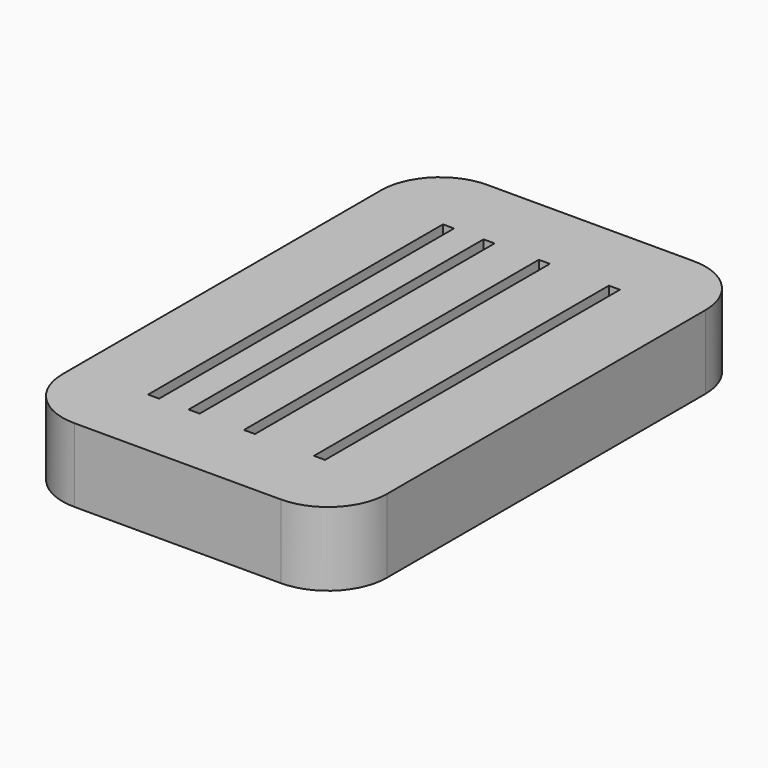
from build123d import *

# Parameters (mm, degrees)
BOX002_W     = 0.75
BOX002_H     = 25
BOX002_DEPTH = 10
BOX003_W     = 0.75
BOX003_H     = 25
BOX003_DEPTH = 10
BOX004_W     = 0.75
BOX004_H     = 25
BOX004_DEPTH = 10
BOX001_W     = 0.75
BOX001_H     = 25
BOX001_DEPTH = 10
BOX_W        = 22
BOX_H        = 35
BOX_DEPTH    = 5
FILLET_R     = 4


with BuildPart() as cube002:
    # Box002 → Box002 (new body)
    with BuildSketch(Plane(origin=(11.5, 5, 0), x_dir=(1, 0, 0), z_dir=(0, 0, 1))):
        with Locations((0.375, 12.5)):
            Rectangle(BOX002_W, BOX002_H)
    extrude(amount=BOX002_DEPTH)


with BuildPart() as cube003:
    # Box003 → Box003 (new body)
    with BuildSketch(Plane(origin=(7.75, 5, 0), x_dir=(1, 0, 0), z_dir=(0, 0, 1))):
        with Locations((0.375, 12.5)):
            Rectangle(BOX003_W, BOX003_H)
    extrude(amount=BOX003_DEPTH)


with BuildPart() as cube004:
    # Box004 → Box004 (new body)
    with BuildSketch(Plane(origin=(16.25, 5, 0), x_dir=(1, 0, 0), z_dir=(0, 0, 1))):
        with Locations((0.375, 12.5)):
            Rectangle(BOX004_W, BOX004_H)
    extrude(amount=BOX004_DEPTH)


with BuildPart() as fusion:
    # Box001 → Box001 (new body)
    with BuildSketch(Plane(origin=(5, 5, 0), x_dir=(1, 0, 0), z_dir=(0, 0, 1))):
        with Locations((0.375, 12.5)):
            Rectangle(BOX001_W, BOX001_H)
    extrude(amount=BOX001_DEPTH)

    # Fusion: union Cube002, Cube003, Cube004
    add(cube002.part)
    add(cube003.part)
    add(cube004.part)


with BuildPart() as cut:
    # Box → Box (new body)
    with BuildSketch(Plane.XY):
        with Locations((11, 17.5)):
            Rectangle(BOX_W, BOX_H)
    extrude(amount=BOX_DEPTH)

    # Fillet
    fillet_edges = [cut.edges().sort_by_distance(p)[0] for p in [
        (0, 0, 2.5),
        (0, 35, 2.5),
        (22, 0, 2.5),
        (22, 35, 2.5),
    ]]
    fillet(fillet_edges, radius=FILLET_R)

    # Cut: cut Fusion
    add(fusion.part, mode=Mode.SUBTRACT)


solid = cut.part
